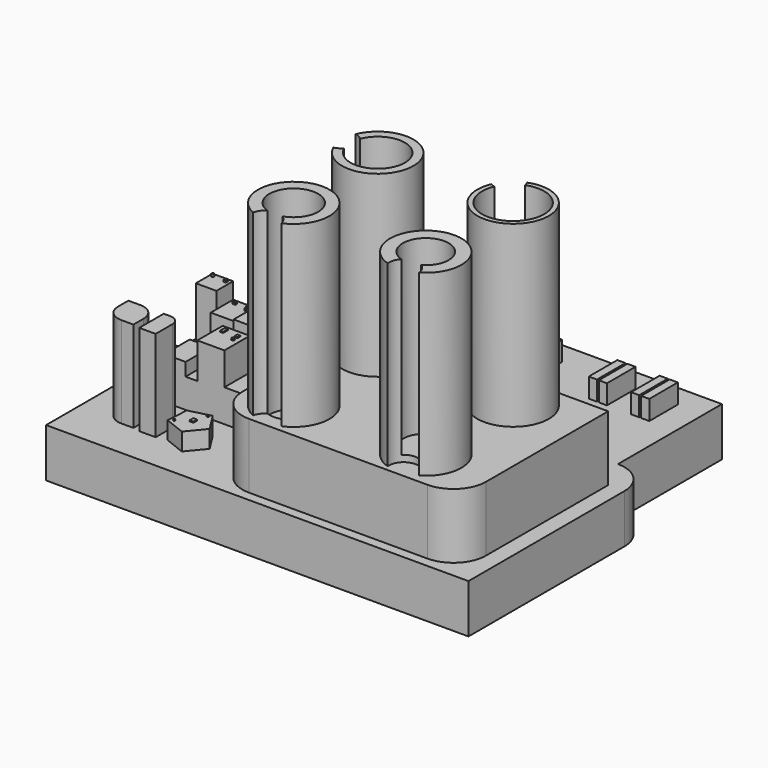
from build123d import *

# Parameters (mm, degrees)
F1_DEPTH  = 19.05
F3_DEPTH  = 25.4
F4_R      = 13.97
F5_DEPTH  = 69.85
F7_DEPTH  = 69.85
F8_R      = 8.9662
F9_DEPTH  = 67.31
F10_R     = 9.5377
F11_DEPTH = 75.946
F12_R     = 10.6188005308
F13_DEPTH = 78.232
F14_W     = 76.2
F14_H     = 19.05
F15_DEPTH = 50.8
F16_W     = 8.0441758037
F16_H     = 8.1825219095
F17_DEPTH = 27.94
F18_DEPTH = 21.59
F16_W_2   = 8.7465755641
F16_H_2   = 8.1425271928
F16_W_3   = 10.7821393758
F16_H_3   = 15.8468019217
F19_DEPTH = 25.4
F16_H_4   = 12.3666124418
F20_DEPTH = 12.7
F16_W_4   = 8.2637071609
F21_DEPTH = 16.51
F16_W_5   = 4.596369341
F22_DEPTH = 11.43
F16_W_6   = 10.5670150369
F23_DEPTH = 25.4
F16_W_7   = 8.6642205715
F24_DEPTH = 12.7
F25_DEPTH = 35.56
F26_DEPTH = 6.858
F27_DEPTH = 50.8
F28_W     = 3.1869296455
F28_H     = 13.9520762181
F28_W_2   = 3.175
F29_DEPTH = 7.62
F30_DEPTH = 7.62
F31_DEPTH = 25.4
F32_R     = 5.715
F33_DEPTH = 69.85
F34_R     = 5.715
F35_DEPTH = 69.85
F36_R     = 5.6835016277
F37_DEPTH = 69.85
F38_DEPTH = 7.62
F39_R     = 0.5103051354
F39_W     = 0.9380877018
F39_H     = 1.072101295
F40_DEPTH = 0.8128
F42_R     = 0.8860130818
F42_R_2   = 0.5245559954
F42_W     = 1.1694952846
F42_H     = 0.8096508682
F43_DEPTH = 0.635
F44_W     = 1.1177808046
F44_H     = 2.6224441826
F45_DEPTH = 0.381
F46_W     = 1.0885223746
F46_H     = 0.5442611873
F47_DEPTH = 0.381
F48_W     = 1.3056993484
F48_H     = 1.2932624668
F48_W_2   = 1.2350380421
F48_H_2   = 1.1342549697
F49_DEPTH = 0.381
F50_W     = 1.231148839
F50_H     = 2.2825766355
F50_W_2   = 1.13780424
F50_H_2   = 1.4076158404
F50_R     = 0.6267689168
F51_DEPTH = 0.381
F52_W     = 1.5104971826
F52_H     = 1.790500246
F52_W_2   = 0.5749240518
F52_H_2   = 0.6368989125
F52_W_3   = 0.5889683962
F52_H_3   = 0.4696820397
F53_DEPTH = 0.381


with BuildPart() as f1:
    # F0 (on Top) → F1 (new body)
    with BuildSketch(Plane.XY):
        with BuildLine():
            Line((52.8864276767, 62.3207134962), (-36.0135723233, 62.3207134962))
            ThreePointArc((-36.0135723233, 62.3207134962), (-44.9938284444, 58.6009696173), (-48.7135723233, 49.6207134962))
            Line((-48.7135723233, 49.6207134962), (-48.7135723233, -26.5792865038))
            Line((-48.7135723233, -26.5792865038), (65.5864276767, -26.5792865038))
            Line((65.5864276767, -26.5792865038), (65.5864276767, 49.6207134962))
            ThreePointArc((65.5864276767, 49.6207134962), (61.8666837977, 58.6009696173), (52.8864276767, 62.3207134962))
        make_face()
    extrude(amount=F1_DEPTH)

    # F2 (on face) → F3 (join)
    with BuildSketch(Plane.XY.offset(19.05)):
        with BuildLine():
            Line((59.2364276767, 49.6207134962), (-36.0135723233, 49.6207134962))
            Line((-36.0135723233, 49.6207134962), (-36.0135723233, -10.0692865038))
            ThreePointArc((-36.0135723233, -10.0692865038), (-32.2938284444, -19.0495426249), (-23.3135723233, -22.7692865038))
            Line((-23.3135723233, -22.7692865038), (46.5364276767, -22.7692865038))
            ThreePointArc((46.5364276767, -22.7692865038), (55.5166837977, -19.0495426249), (59.2364276767, -10.0692865038))
            Line((59.2364276767, -10.0692865038), (59.2364276767, 49.6207134962))
        make_face()
    extrude(amount=F3_DEPTH)

    # F4 (on face) → F5 (join)
    with BuildSketch(Plane.XY.offset(44.45)):
        with Locations((-18.659567254, 34.3807134962)):
            Circle(F4_R)
        with Locations((-17.9453252435, -7.5292865038)):
            Circle(F4_R)
        with Locations((33.6586460471, -7.5292865038)):
            Circle(F4_R)
        with Locations((34.272010638, 34.3807134962)):
            Circle(F4_R)
    extrude(amount=F5_DEPTH)

    # F6 (on face) → F7 (cut)
    with BuildSketch(Plane.XY.offset(114.3)):
        with BuildLine():
            ThreePointArc((23.1063906829, 39.1491166313), (31.8384214737, 22.4859086967), (46.413210638, 34.3807134962))
            ThreePointArc((46.413210638, 34.3807134962), (41.1237690594, 44.4037940593), (29.8642461247, 45.6935535214))
            ThreePointArc((29.8642461247, 45.6935535214), (29.9226405704, 45.2249594474), (29.9421497846, 44.7531441148))
            ThreePointArc((29.9421497846, 44.7531441148), (27.8504139713, 40.3335081984), (23.1063906829, 39.1491166313))
        make_face()
        with BuildLine():
            ThreePointArc((29.9421497846, 44.7531441148), (29.9226405704, 45.2249594474), (29.8642461247, 45.6935535214))
            ThreePointArc((29.8642461247, 45.6935535214), (25.8257102939, 43.1024534566), (23.1063906829, 39.1491166313))
            ThreePointArc((23.1063906829, 39.1491166313), (27.8504139713, 40.3335081984), (29.9421497846, 44.7531441148))
        make_face()
        with BuildLine():
            ThreePointArc((23.1063906829, 39.1491166313), (25.8257102939, 43.1024534566), (29.8642461247, 45.6935535214))
            ThreePointArc((29.8642461247, 45.6935535214), (20.2513807941, 48.8585656443), (23.1063906829, 39.1491166313))
        make_face()
        with BuildLine():
            ThreePointArc((29.9421497846, 44.7531441148), (29.9226405704, 45.2249594474), (29.8642461247, 45.6935535214))
            ThreePointArc((29.8642461247, 45.6935535214), (25.8257102939, 43.1024534566), (23.1063906829, 39.1491166313))
            ThreePointArc((23.1063906829, 39.1491166313), (27.8504139713, 40.3335081984), (29.9421497846, 44.7531441148))
        make_face()
        with BuildLine():
            ThreePointArc((23.1063906829, 39.1491166313), (31.8384214737, 22.4859086967), (46.413210638, 34.3807134962))
            ThreePointArc((46.413210638, 34.3807134962), (41.1237690594, 44.4037940593), (29.8642461247, 45.6935535214))
            ThreePointArc((29.8642461247, 45.6935535214), (29.9226405704, 45.2249594474), (29.9421497846, 44.7531441148))
            ThreePointArc((29.9421497846, 44.7531441148), (27.8504139713, 40.3335081984), (23.1063906829, 39.1491166313))
        make_face()
    extrude(amount=-F7_DEPTH, mode=Mode.SUBTRACT)

    # F8 (on face) → F9 (cut)
    with BuildSketch(Plane.XY.offset(114.3)):
        with Locations((33.6586460471, -7.5292865038)):
            Circle(F8_R)
    extrude(amount=-F9_DEPTH, mode=Mode.SUBTRACT)

    # F10 (on face) → F11 (cut)
    with BuildSketch(Plane.XY.offset(114.3)):
        with Locations((-17.9453252435, -7.5292865038)):
            Circle(F10_R)
    extrude(amount=-F11_DEPTH, mode=Mode.SUBTRACT)

    # F12 (on face) → F13 (cut)
    with BuildSketch(Plane.XY.offset(114.3)):
        with Locations((-18.659567254, 34.3807134962)):
            Circle(F12_R)
    extrude(amount=-F13_DEPTH, mode=Mode.SUBTRACT)

    # F14 (on face) → F15 (join)
    with BuildSketch(Plane(origin=(-48.7135723233, 0, 0), x_dir=(0, -1, 0), z_dir=(-1, 0, 0))):
        with Locations((-11.5207134962, 9.525)):
            Rectangle(F14_W, F14_H)
    extrude(amount=F15_DEPTH)

    # F16 (on face) → F17 (join)
    with BuildSketch(Plane.XY.offset(19.05)):
        with Locations((-84.8269723356, 37.3456235975)):
            Rectangle(F16_W, F16_H)
    extrude(amount=F17_DEPTH)

    # F16 (on face) → F18 (join)
    with BuildSketch(Plane.XY.offset(19.05)):
        Polygon((-71.7673748732, 41.4368845522), (-80.8048844337, 41.4368845522), (-80.8048844337, 33.2543626428), (-80.8048844337, 30.4707903415), (-71.7673748732, 30.4707903415), align=None)
    extrude(amount=F18_DEPTH)

    # F16 (on face) → F19 (join)
    with BuildSketch(Plane.XY.offset(19.05)):
        with Locations((-51.9934426993, 37.3656209558)):
            Rectangle(F16_W_2, F16_H_2)
        with Locations((-62.5537382439, 33.5134835914)):
            Rectangle(F16_W_3, F16_H_3)
    extrude(amount=F19_DEPTH)

    # F16 (on face) → F20 (join)
    with BuildSketch(Plane.XY.offset(19.05)):
        with Locations((-84.8269723356, 14.0432356857)):
            Rectangle(F16_W, F16_H_4)
    extrude(amount=F20_DEPTH)

    # F16 (on face) → F21 (join)
    with BuildSketch(Plane.XY.offset(19.05)):
        with Locations((-76.6730308533, 14.0432356857)):
            Rectangle(F16_W_4, F16_H_4)
    extrude(amount=F21_DEPTH)

    # F16 (on face) → F22 (join)
    with BuildSketch(Plane.XY.offset(19.05)):
        with Locations((-70.2429926023, 14.0432356857)):
            Rectangle(F16_W_5, F16_H_4)
    extrude(amount=F22_DEPTH)

    # F16 (on face) → F23 (join)
    with BuildSketch(Plane.XY.offset(19.05)):
        with Locations((-62.6613004133, 14.0432356857)):
            Rectangle(F16_W_6, F16_H_4)
    extrude(amount=F23_DEPTH)

    # F16 (on face) → F24 (join)
    with BuildSketch(Plane.XY.offset(19.05)):
        with Locations((-53.0456826091, 14.0432356857)):
            Rectangle(F16_W_7, F16_H_4)
    extrude(amount=F24_DEPTH)

    # F16 (on face) → F25 (join)
    with BuildSketch(Plane.XY.offset(19.05)):
        with BuildLine():
            ThreePointArc((-88.6158570647, -5.040529573), (-86.7559851253, -9.5306576335), (-82.2658570647, -11.390529573))
            Line((-82.2658570647, -11.390529573), (-77.5248259306, -11.390529573))
            Line((-77.5248259306, -11.390529573), (-77.5248259306, -6.35))
            ThreePointArc((-77.5248259306, -6.35), (-79.3846978701, -1.8598719395), (-83.8748259306, 0))
            Line((-83.8748259306, 0), (-88.6158570647, 0))
            Line((-88.6158570647, 0), (-88.6158570647, -5.040529573))
        make_face()
        with BuildLine():
            Line((-74.7881531715, -11.9606424123), (-68.386607089, -11.9606424123))
            Line((-68.386607089, -11.9606424123), (-68.386607089, -3.81))
            ThreePointArc((-68.386607089, -3.81), (-69.5025302527, -1.1159231637), (-72.196607089, 0))
            Line((-72.196607089, 0), (-74.7881531715, 0))
            Line((-74.7881531715, 0), (-74.7881531715, -11.9606424123))
        make_face()
    extrude(amount=F25_DEPTH)

    # F16 (on face) → F26 (join)
    with BuildSketch(Plane.XY.offset(19.05)):
        Polygon((-50.7232868326, -7.6544664799), (-55.3801259744, -0.3207718954), (-63.7939264323, -2.4834528484), (-64.3371019481, -11.1537577686), (-56.2590024208, -14.3496199492), align=None)
    extrude(amount=F26_DEPTH)

    # F27 (add): a face of the model
    f27_faces = [f1.faces().sort_by_distance(p)[0] for p in [
        (8.4364276767, 62.3207134962, 9.525),
    ]]
    extrude(f27_faces, amount=F27_DEPTH)

    # F28 (on face) → F29 (join)
    with BuildSketch(Plane.XY.offset(19.05)):
        with Locations((-24.6911103141, 97.4900721419)):
            Rectangle(F28_W, F28_H)
        with Locations((-20.7501454914, 97.4900721419)):
            Rectangle(F28_W_2, F28_H)
        with Locations((-8.1535427406, 97.4900721419)):
            Rectangle(F28_W_2, F28_H)
        with Locations((-4.2165427406, 97.4900721419)):
            Rectangle(F28_W_2, F28_H)
    extrude(amount=F29_DEPTH)

    # F28 (on face) → F30 (join)
    with BuildSketch(Plane.XY.offset(19.05)):
        with Locations((20.5183460315, 97.4900721419)):
            Rectangle(F28_W_2, F28_H)
        with Locations((24.4553460315, 97.4900721419)):
            Rectangle(F28_W_2, F28_H)
        with Locations((37.0519487822, 97.4900721419)):
            Rectangle(F28_W_2, F28_H)
        with Locations((40.992913605, 97.4900721419)):
            Rectangle(F28_W, F28_H)
    extrude(amount=F30_DEPTH)

    # F6 (on face) → F31 (cut)
    with BuildSketch(Plane.XY.offset(114.3)):
        with BuildLine():
            ThreePointArc((23.1063906829, 39.1491166313), (25.8257102939, 43.1024534566), (29.8642461247, 45.6935535214))
            ThreePointArc((29.8642461247, 45.6935535214), (29.6408921406, 46.5841598719), (29.2777961302, 47.4275031952))
            ThreePointArc((29.2777961302, 47.4275031952), (24.553464217, 44.4161883461), (21.3921462853, 39.7908885632))
            ThreePointArc((21.3921462853, 39.7908885632), (22.2234077249, 39.4009256254), (23.1063906829, 39.1491166313))
        make_face()
    extrude(amount=-F31_DEPTH, mode=Mode.SUBTRACT)

    # F32 (on face) → F33 (cut)
    with BuildSketch(Plane.XY.offset(114.3)):
        with Locations((-32.6275831184, 34.14527176)):
            Circle(F32_R)
    extrude(amount=-F33_DEPTH, mode=Mode.SUBTRACT)

    # F34 (on face) → F35 (cut)
    with BuildSketch(Plane.XY.offset(114.3)):
        with Locations((-18.1113731029, -21.4982996439)):
            Circle(F34_R)
    extrude(amount=-F35_DEPTH, mode=Mode.SUBTRACT)

    # F36 (on face) → F37 (cut)
    with BuildSketch(Plane.XY.offset(114.3)):
        with Locations((35.0334756076, -20.098278299)):
            Circle(F36_R)
    extrude(amount=-F37_DEPTH, mode=Mode.SUBTRACT)

    # F28 (on face) → F38 (join)
    with BuildSketch(Plane.XY.offset(19.05)):
        with Locations((-24.6911103141, 62.0168563592)):
            Rectangle(F28_W, F28_H)
        with Locations((-20.7501454914, 62.0168563592)):
            Rectangle(F28_W_2, F28_H)
        with Locations((-8.1535427406, 62.0168563592)):
            Rectangle(F28_W_2, F28_H)
        with Locations((-4.2165427406, 62.0168563592)):
            Rectangle(F28_W_2, F28_H)
        with Locations((20.5183460315, 62.0168563592)):
            Rectangle(F28_W_2, F28_H)
        with Locations((24.4553460315, 62.0168563592)):
            Rectangle(F28_W_2, F28_H)
        with Locations((37.0519487822, 62.0168563592)):
            Rectangle(F28_W_2, F28_H)
        with Locations((40.992913605, 62.0168563592)):
            Rectangle(F28_W, F28_H)
    extrude(amount=F38_DEPTH)

    # F39 (on face) → F40 (join)
    with BuildSketch(Plane.XY.offset(46.99)):
        with Locations((-87.6912474632, 40.1287265122)):
            Circle(F39_R)
        with Locations((-82.3977440596, 39.7936962545)):
            Rectangle(F39_W, F39_H)
    extrude(amount=F40_DEPTH)

    # F42 (on face) → F43 (join)
    with BuildSketch(Plane.XY.offset(40.64)):
        with Locations((-73.4610334039, 40.0414988399)):
            Circle(F42_R)
        with Locations((-73.3710676432, 38.4222008288)):
            Circle(F42_R_2)
        with Locations((-78.7237472832, 39.5467150956)):
            Rectangle(F42_W, F42_H)
    extrude(amount=F43_DEPTH)

    # F44 (on face) → F45 (join)
    with BuildSketch(Plane.XY.offset(44.45)):
        with Locations((-66.0188570619, 38.7527104467)):
            Rectangle(F44_W, F44_H)
        Polygon((-59.4740100205, 37.7998341601), (-59.4740100205, 40.0737087447), (-61.4432431757, 38.9367714524), align=None)
    extrude(amount=F45_DEPTH)

    # F46 (on face) → F47 (join)
    with BuildSketch(Plane.XY.offset(44.45)):
        with Locations((-54.7650903463, 40.1008408517)):
            Rectangle(F46_W, F46_H)
        Polygon((-52.5880455971, 40.3729714453), (-54.220829159, 40.3729714453), (-54.220829159, 39.828710258), (-54.220829159, 39.2844490707), (-52.5880455971, 39.2844490707), align=None)
    extrude(amount=F47_DEPTH)

    # F48 (on face) → F49 (join)
    with BuildSketch(Plane.XY.offset(31.75)):
        with Locations((-86.9800820947, 18.4656428173)):
            Rectangle(F48_W, F48_H)
        with Locations((-86.9447514415, 9.9841342308)):
            Rectangle(F48_W_2, F48_H_2)
    extrude(amount=F49_DEPTH)

    # F50 (on face) → F51 (join)
    with BuildSketch(Plane.XY.offset(44.45)):
        with Locations((-65.4765591025, 17.7472187206)):
            Rectangle(F50_W, F50_H)
        with Locations((-59.8297026008, 17.3097383231)):
            Rectangle(F50_W_2, F50_H_2)
        with Locations((-59.771835804, 15.1298446581)):
            Circle(F50_R)
    extrude(amount=F51_DEPTH)

    # F52 (on face) → F53 (join)
    with BuildSketch(Plane.XY.offset(25.908)):
        with Locations((-57.8783359379, -6.6870218143)):
            Rectangle(F52_W, F52_H)
        with Locations((-62.6530535519, -10.0531303324)):
            Rectangle(F52_W_2, F52_H_2)
        with Locations((-56.2423691154, -1.6962428344)):
            Rectangle(F52_W_3, F52_H_3)
    extrude(amount=F53_DEPTH)


solid = f1.part
